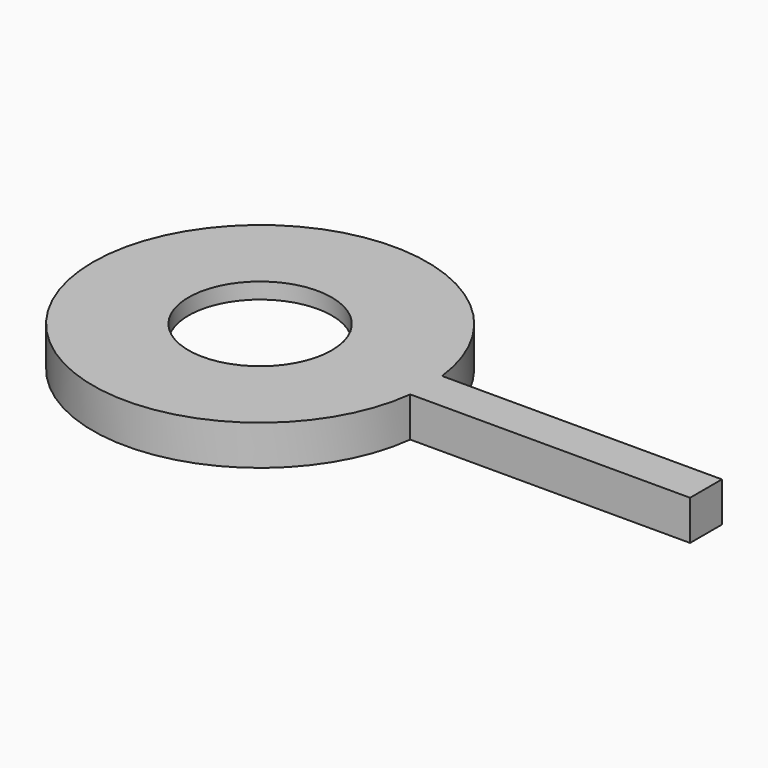
from build123d import *

# Parameters (mm, degrees)
F0_R     = 16
F1_DEPTH = 5
F2_DEPTH = 3
F3_R     = 9
F4_DEPTH = 5.001


with BuildPart() as f1:
    # F0 (on Top) → F1 (new body)
    with BuildSketch(Plane.XY):
        with BuildLine():
            ThreePointArc((20.850659, -2.5), (20.962632, -1.252228), (21, 0))
            ThreePointArc((21, 0), (20.962632, 1.252228), (20.850659, 2.5))
            ThreePointArc((20.850659, 2.5), (-21, 0), (20.850659, -2.5))
        make_face()
        Circle(F0_R, mode=Mode.SUBTRACT)
        with BuildLine():
            ThreePointArc((20.850659, 2.5), (20.962632, 1.252228), (21, 0))
            ThreePointArc((21, 0), (20.962632, -1.252228), (20.850659, -2.5))
            Line((20.850659, -2.5), (56, -2.5))
            Line((56, -2.5), (56, 0))
            Line((56, 0), (56, 2.5))
            Line((56, 2.5), (20.850659, 2.5))
        make_face()
        Circle(F0_R)
    extrude(amount=F1_DEPTH)

    # F0 (on Top) → F2 (cut)
    with BuildSketch(Plane.XY):
        Circle(F0_R)
    extrude(amount=F2_DEPTH, mode=Mode.SUBTRACT)

    # F3 (on face) → F4 (cut, through all)
    with BuildSketch(Plane.XY.offset(5)):
        Circle(F3_R)
    extrude(amount=-F4_DEPTH, mode=Mode.SUBTRACT)


solid = f1.part
